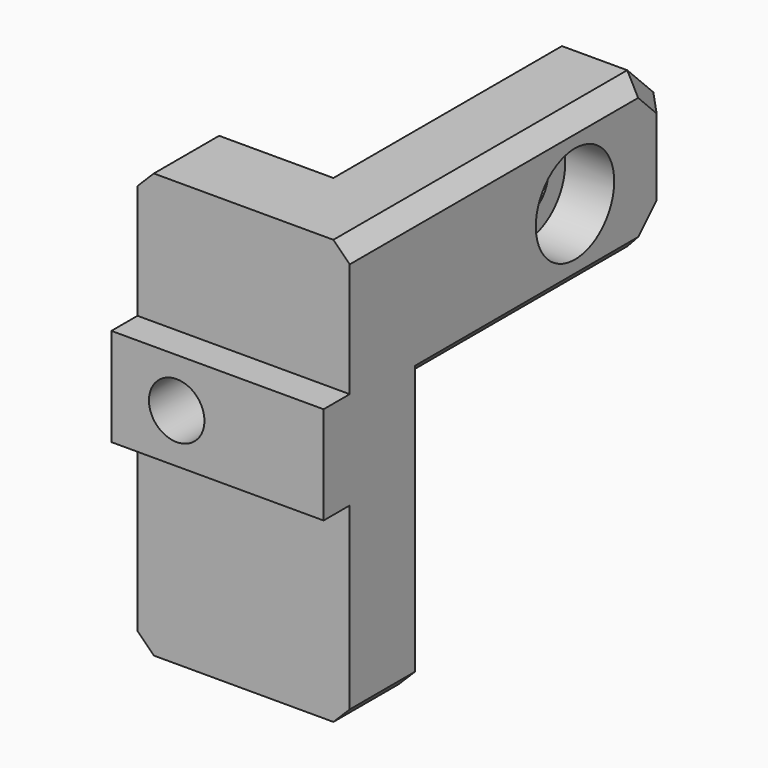
from build123d import *

# Parameters (mm, degrees)
CYLINDER029_R     = 3
CYLINDER029_DEPTH = 3
CYLINDER028_R     = 1.7
CYLINDER028_DEPTH = 10
CYLINDER025_R     = 3
CYLINDER025_DEPTH = 3
CYLINDER026_R     = 1.7
CYLINDER026_DEPTH = 10
BOX036_W          = 13
BOX036_H          = 2
BOX036_DEPTH      = 6
BOX033_W          = 5
BOX033_H          = 24.5
BOX033_DEPTH      = 9.5
CHAMFER007_SIZE   = 2
CHAMFER008_SIZE   = 1
BOX037_W          = 13
BOX037_H          = 5
BOX037_DEPTH      = 26
CHAMFER009_SIZE   = 1
CHAMFER010_SIZE   = 1


with BuildPart() as cylinder029:
    # Cylinder029 → Cylinder029 (new body)
    with BuildSketch(Plane(origin=(32, -7, -0.5), x_dir=(1, 0, 0), z_dir=(0, 1, 0))):
        Circle(CYLINDER029_R)
    extrude(amount=CYLINDER029_DEPTH)


with BuildPart() as cylinder028:
    # Cylinder028 → Cylinder028 (new body)
    with BuildSketch(Plane(origin=(32, -14, -0.5), x_dir=(1, 0, 0), z_dir=(0, 1, 0))):
        Circle(CYLINDER028_R)
    extrude(amount=CYLINDER028_DEPTH)


with BuildPart() as cylinder025:
    # Cylinder025 → Cylinder025 (new body)
    with BuildSketch(Plane(origin=(41, 8.25, 5.75), x_dir=(0, 0, 1), z_dir=(-1, 0, 0))):
        Circle(CYLINDER025_R)
    extrude(amount=CYLINDER025_DEPTH)


with BuildPart() as cylinder026:
    # Cylinder026 → Cylinder026 (new body)
    with BuildSketch(Plane(origin=(41, 8.25, 5.75), x_dir=(0, 0, 1), z_dir=(-1, 0, 0))):
        Circle(CYLINDER026_R)
    extrude(amount=CYLINDER026_DEPTH)


with BuildPart() as cube036:
    # Box036 → Box036 (new body)
    with BuildSketch(Plane(origin=(28, -11, -3.5), x_dir=(1, 0, 0), z_dir=(0, 0, 1))):
        with Locations((6.5, 1)):
            Rectangle(BOX036_W, BOX036_H)
    extrude(amount=BOX036_DEPTH)


with BuildPart() as chamfer008:
    # Box033 → Box033 (new body)
    with BuildSketch(Plane(origin=(36, -9, 1), x_dir=(1, 0, 0), z_dir=(0, 0, 1))):
        with Locations((2.5, 12.25)):
            Rectangle(BOX033_W, BOX033_H)
    extrude(amount=BOX033_DEPTH)

    # Chamfer007
    chamfer007_edges = [chamfer008.edges().sort_by_distance(p)[0] for p in [
        (38.5, 15.5, 1),
        (38.5, 15.5, 10.5),
    ]]
    chamfer(chamfer007_edges, length=CHAMFER007_SIZE)

    # Chamfer008
    chamfer008_edges = [chamfer008.edges().sort_by_distance(p)[0] for p in [
        (41, 2.25, 10.5),
        (41, 14.5, 9.5),
        (41, 15.5, 5.75),
        (41, 2.25, 1),
        (41, 14.5, 2),
    ]]
    chamfer(chamfer008_edges, length=CHAMFER008_SIZE)


with BuildPart() as cut007016008:
    # Box037 → Box037 (new body)
    with BuildSketch(Plane(origin=(28, -9, -15.5), x_dir=(1, 0, 0), z_dir=(0, 0, 1))):
        with Locations((6.5, 2.5)):
            Rectangle(BOX037_W, BOX037_H)
    extrude(amount=BOX037_DEPTH)

    # Chamfer009
    chamfer009_edges = [cut007016008.edges().sort_by_distance(p)[0] for p in [
        (41, -6.5, 10.5),
    ]]
    chamfer(chamfer009_edges, length=CHAMFER009_SIZE)

    # Chamfer010
    chamfer010_edges = [cut007016008.edges().sort_by_distance(p)[0] for p in [
        (41, -6.5, -15.5),
        (28, -6.5, -15.5),
        (28, -6.5, 10.5),
    ]]
    chamfer(chamfer010_edges, length=CHAMFER010_SIZE)

    # Fusion003007006011: union Cube036, Chamfer008
    add(cube036.part)
    add(chamfer008.part)

    # Cut007016003: cut Cylinder026
    add(cylinder026.part, mode=Mode.SUBTRACT)

    # Cut007016006: cut Cylinder025
    add(cylinder025.part, mode=Mode.SUBTRACT)

    # Cut007016007: cut Cylinder028
    add(cylinder028.part, mode=Mode.SUBTRACT)

    # Cut007016008: cut Cylinder029
    add(cylinder029.part, mode=Mode.SUBTRACT)


solid = cut007016008.part
